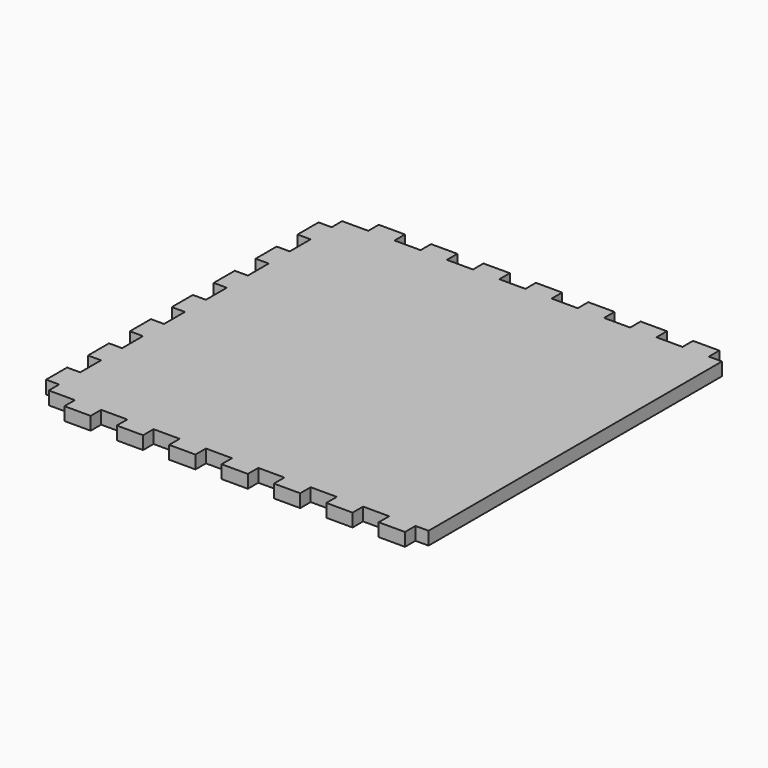
from build123d import *

# Parameters (mm, degrees)
F0_W     = 300
F0_H     = 300
F1_DEPTH = 10
F2_W     = 10
F2_H     = 10
F2_W_2   = 19.925
F2_H_2   = 9.925
F2_H_3   = 19.925
F3_DEPTH = 10.001


with BuildPart() as f1:
    # F0 (on Top) → F1 (new body)
    with BuildSketch(Plane.XY):
        with Locations((150, 150)):
            Rectangle(F0_W, F0_H)
    extrude(amount=F1_DEPTH)

    # F2 (on face) → F3 (cut, through all)
    with BuildSketch(Plane.XY):
        with Locations((295, 295)):
            Rectangle(F2_W, F2_H)
        with Locations((259.9625, 295)):
            Rectangle(F2_W_2, F2_H)
        with Locations((219.9625, 295)):
            Rectangle(F2_W_2, F2_H)
        with Locations((179.9625, 295)):
            Rectangle(F2_W_2, F2_H)
        with Locations((139.9625, 295)):
            Rectangle(F2_W_2, F2_H)
        with Locations((99.9625, 295)):
            Rectangle(F2_W_2, F2_H)
        with Locations((59.9625, 295)):
            Rectangle(F2_W_2, F2_H)
        Polygon((29.925, 290), (29.925, 300), (-24.5567484915, 300), (-24.5567484915, 290), (0, 290), (0, 299.925), (10, 299.925), (10, 290), align=None)
        with Locations((5, 285)):
            Rectangle(F2_W, F2_H)
        with Locations((5, 294.9625)):
            Rectangle(F2_W, F2_H_2)
        with Locations((295, 5)):
            Rectangle(F2_W, F2_H)
        with Locations((259.9625, 5)):
            Rectangle(F2_W_2, F2_H)
        with Locations((219.9625, 5)):
            Rectangle(F2_W_2, F2_H)
        with Locations((179.9625, 5)):
            Rectangle(F2_W_2, F2_H)
        with Locations((139.9625, 5)):
            Rectangle(F2_W_2, F2_H)
        with Locations((99.9625, 5)):
            Rectangle(F2_W_2, F2_H)
        with Locations((59.9625, 5)):
            Rectangle(F2_W_2, F2_H)
        with Locations((19.9625, 5)):
            Rectangle(F2_W_2, F2_H)
        Polygon((0, 0), (10, 0), (10, 10), (10, 19.925), (0, 19.925), align=None)
        with Locations((5, 49.9625)):
            Rectangle(F2_W, F2_H_3)
        with Locations((5, 89.9625)):
            Rectangle(F2_W, F2_H_3)
        with Locations((5, 129.9625)):
            Rectangle(F2_W, F2_H_3)
        with Locations((5, 169.9625)):
            Rectangle(F2_W, F2_H_3)
        with Locations((5, 209.9625)):
            Rectangle(F2_W, F2_H_3)
        with Locations((5, 249.9625)):
            Rectangle(F2_W, F2_H_3)
    extrude(amount=F3_DEPTH, mode=Mode.SUBTRACT)


solid = f1.part
